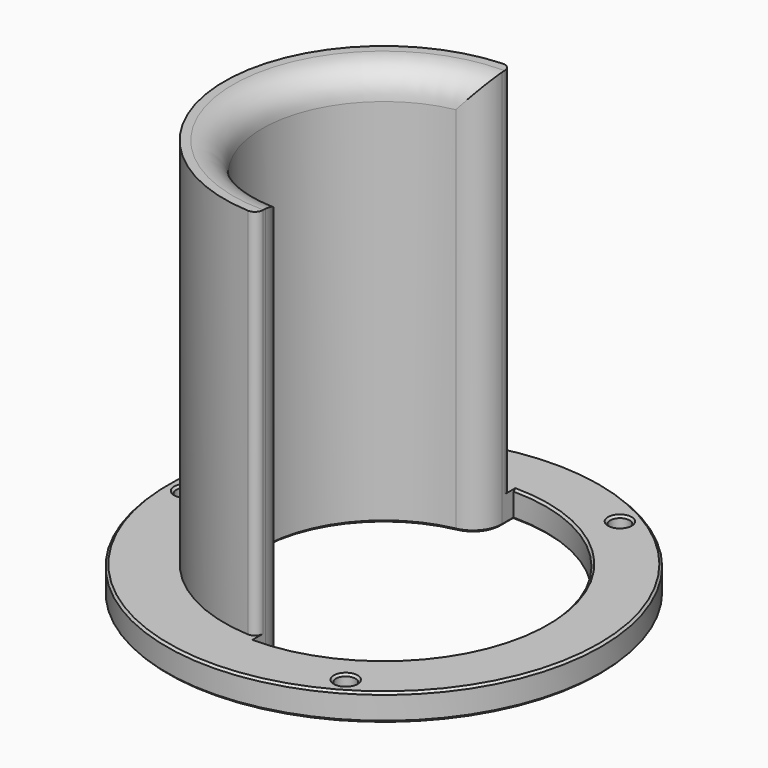
from build123d import *

# Parameters (mm, degrees)
SKETCH_R     = 40.2
SKETCH_R_2   = 22.5
PAD_DEPTH    = 5
PAD001_DEPTH = 74
POCKET_DEPTH = 5
FILLET_R     = 1.5
FILLET001_R  = 5.4
SKETCH003_R  = 1.8
HOLE_DEPTH   = 5
CHAMFER_SIZE = 0.4


with BuildPart() as part:
    # Sketch → Pad (new body)
    with BuildSketch(Plane.XY):
        Circle(SKETCH_R)
        Circle(SKETCH_R_2, mode=Mode.SUBTRACT)
    extrude(amount=PAD_DEPTH)

    # Sketch001 → Pad001 (join)
    with BuildSketch(Plane.XY):
        with BuildLine():
            ThreePointArc((0, 29.5), (-29.5, 0), (0, -29.5))
            Line((0, -22.5), (0, -29.5))
            ThreePointArc((0, 22.5), (-22.5, 0), (0, -22.5))
            Line((0, 29.5), (0, 22.5))
        make_face()
    extrude(amount=PAD001_DEPTH)

    # Sketch002 → Pocket (cut)
    with BuildSketch(Plane.XY):
        with BuildLine():
            ThreePointArc((0, -30), (30, 0), (0, 30))
            Line((0, 30), (0, 22.5))
            ThreePointArc((0, -22.5), (22.5, 0), (0, 22.5))
            Line((0, -22.5), (0, -30))
        make_face()
    extrude(amount=POCKET_DEPTH, mode=Mode.SUBTRACT)

    # Fillet
    fillet_edges = [part.edges().sort_by_distance(p)[0] for p in [
        (0, -29.5, 39.5),
        (0, 29.5, 39.5),
    ]]
    fillet(fillet_edges, radius=FILLET_R)

    # Fillet001
    fillet001_edges = [part.edges().sort_by_distance(p)[0] for p in [
        (-22.5, 0, 74),
        (0, -22.5, 39.5),
        (0, 22.5, 39.5),
    ]]
    fillet(fillet001_edges, radius=FILLET001_R)

    # Sketch003 → Hole (cut)
    with BuildSketch(Plane.XY):
        with Locations((-36.6, 0)):
            Circle(SKETCH003_R)
        with Locations((18.3, 31.69653)):
            Circle(SKETCH003_R)
        with Locations((18.3, -31.69653)):
            Circle(SKETCH003_R)
    extrude(amount=HOLE_DEPTH, mode=Mode.SUBTRACT)

    # Chamfer
    chamfer_edges = [part.edges().sort_by_distance(p)[0] for p in [
        (-40.2, 0, 5),
        (20.1, -31.69653, 5),
        (20.1, 31.69653, 5),
        (30, 0, 5),
        (-40.2, 0, 0),
        (30, 0, 0),
        (20.1, -31.69653, 0),
        (20.1, 31.69653, 0),
        (-34.8, 0, 0),
        (0, -29.75, 0),
        (0, -28.436216, 0),
        (-1.228437, -23.943428, 0),
        (-22.5, 0, 0),
        (-1.228437, 23.943428, 0),
        (0, 29.75, 0),
        (0, 28.436216, 0),
        (-34.8, 0, 5),
    ]]
    chamfer(chamfer_edges, length=CHAMFER_SIZE)


solid = part.part
